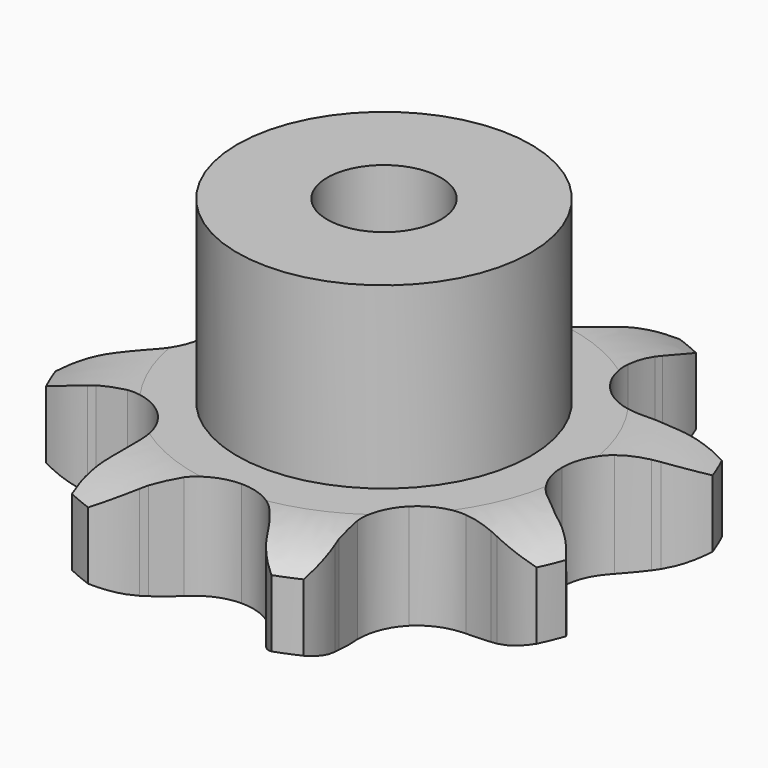
from build123d import *

# Parameters (mm, degrees)
PAD_DEPTH         = 11.1
SKETCH001_R       = 15.5
PAD001_DEPTH      = 30
SKETCH002_R       = 6
POCKET_DEPTH      = 0.001
POCKET_DEPTH_BACK = -30.001


with BuildPart() as part:
    # Sprocket → Pad (new body)
    with BuildSketch(Plane.XY):
        with BuildLine():
            ThreePointArc((-11.611878, 28.033554), (-8.844692, 26.332952), (-6.736351, 23.862271))
            Line((-6.736351, 23.862271), (-6.317841, 23.179325))
            ThreePointArc((-6.317841, 23.179325), (-5.466767, 21.929355), (-4.499806, 20.766712))
            ThreePointArc((-4.499806, 20.766712), (-2.458074, 19.303627), (0, 18.786749))
            ThreePointArc((0, 18.786749), (2.458074, 19.303627), (4.499806, 20.766712))
            ThreePointArc((4.499806, 20.766712), (5.466767, 21.929355), (6.317841, 23.179325))
            Line((6.317841, 23.179325), (6.736351, 23.862271))
            ThreePointArc((6.736351, 23.862271), (8.844692, 26.332952), (11.611878, 28.033554))
            ThreePointArc((11.611878, 28.033554), (12.366067, 24.874351), (12.109854, 21.636493))
            Line((12.109854, 21.636493), (11.92287, 20.857646))
            ThreePointArc((11.92287, 20.857646), (11.640808, 19.371983), (11.502439, 17.866126))
            ThreePointArc((11.502439, 17.866126), (11.911605, 15.387846), (13.284238, 13.284238))
            ThreePointArc((13.284238, 13.284238), (15.387846, 11.911605), (17.866126, 11.502439))
            Line((17.866126, 11.502439), (20.857646, 11.92287))
            ThreePointArc((20.857646, 11.92287), (21.245881, 12.021311), (21.636493, 12.109854))
            ThreePointArc((21.636493, 12.109854), (24.874351, 12.366067), (28.033554, 11.611878))
            ThreePointArc((28.033554, 11.611878), (26.332952, 8.844692), (23.862271, 6.736351))
            Line((23.862271, 6.736351), (23.179325, 6.317841))
            ThreePointArc((23.179325, 6.317841), (21.929355, 5.466767), (20.766712, 4.499806))
            ThreePointArc((20.766712, 4.499806), (19.303627, 2.458074), (18.786749, 0))
            ThreePointArc((18.786749, 0), (19.303627, -2.458074), (20.766712, -4.499806))
            Line((20.766712, -4.499806), (23.179325, -6.317841))
            ThreePointArc((23.179325, -6.317841), (23.523457, -6.522756), (23.862271, -6.736351))
            ThreePointArc((23.862271, -6.736351), (26.332952, -8.844692), (28.033554, -11.611878))
            ThreePointArc((28.033554, -11.611878), (24.874351, -12.366067), (21.636493, -12.109854))
            Line((21.636493, -12.109854), (20.857646, -11.92287))
            ThreePointArc((20.857646, -11.92287), (19.371983, -11.640808), (17.866126, -11.502439))
            ThreePointArc((17.866126, -11.502439), (15.387846, -11.911605), (13.284238, -13.284238))
            ThreePointArc((13.284238, -13.284238), (11.911605, -15.387846), (11.502439, -17.866126))
            Line((11.502439, -17.866126), (11.92287, -20.857646))
            ThreePointArc((11.92287, -20.857646), (12.021311, -21.245881), (12.109854, -21.636493))
            ThreePointArc((12.109854, -21.636493), (12.366067, -24.874351), (11.611878, -28.033554))
            ThreePointArc((11.611878, -28.033554), (8.844692, -26.332952), (6.736351, -23.862271))
            Line((6.736351, -23.862271), (6.317841, -23.179325))
            ThreePointArc((6.317841, -23.179325), (5.466767, -21.929355), (4.499806, -20.766712))
            ThreePointArc((4.499806, -20.766712), (2.458074, -19.303627), (0, -18.786749))
            ThreePointArc((0, -18.786749), (-2.458074, -19.303627), (-4.499806, -20.766712))
            Line((-4.499806, -20.766712), (-6.317841, -23.179325))
            ThreePointArc((-6.317841, -23.179325), (-6.522756, -23.523457), (-6.736351, -23.862271))
            ThreePointArc((-6.736351, -23.862271), (-8.844692, -26.332952), (-11.611878, -28.033554))
            ThreePointArc((-11.611878, -28.033554), (-12.366067, -24.874351), (-12.109854, -21.636493))
            Line((-12.109854, -21.636493), (-11.92287, -20.857646))
            ThreePointArc((-11.92287, -20.857646), (-11.640808, -19.371983), (-11.502439, -17.866126))
            ThreePointArc((-11.502439, -17.866126), (-11.911605, -15.387846), (-13.284238, -13.284238))
            ThreePointArc((-13.284238, -13.284238), (-15.387846, -11.911605), (-17.866126, -11.502439))
            Line((-17.866126, -11.502439), (-20.857646, -11.92287))
            ThreePointArc((-20.857646, -11.92287), (-21.245881, -12.021311), (-21.636493, -12.109854))
            ThreePointArc((-21.636493, -12.109854), (-24.874351, -12.366067), (-28.033554, -11.611878))
            ThreePointArc((-28.033554, -11.611878), (-26.332952, -8.844692), (-23.862271, -6.736351))
            Line((-23.862271, -6.736351), (-23.179325, -6.317841))
            ThreePointArc((-23.179325, -6.317841), (-21.929355, -5.466767), (-20.766712, -4.499806))
            ThreePointArc((-20.766712, -4.499806), (-19.303627, -2.458074), (-18.786749, 0))
            ThreePointArc((-18.786749, 0), (-19.303627, 2.458074), (-20.766712, 4.499806))
            Line((-20.766712, 4.499806), (-23.179325, 6.317841))
            ThreePointArc((-23.179325, 6.317841), (-23.523457, 6.522756), (-23.862271, 6.736351))
            ThreePointArc((-23.862271, 6.736351), (-26.332952, 8.844692), (-28.033554, 11.611878))
            ThreePointArc((-28.033554, 11.611878), (-24.874351, 12.366067), (-21.636493, 12.109854))
            Line((-21.636493, 12.109854), (-20.857646, 11.92287))
            ThreePointArc((-20.857646, 11.92287), (-19.371983, 11.640808), (-17.866126, 11.502439))
            ThreePointArc((-17.866126, 11.502439), (-15.387846, 11.911605), (-13.284238, 13.284238))
            ThreePointArc((-13.284238, 13.284238), (-11.911605, 15.387846), (-11.502439, 17.866126))
            Line((-11.502439, 17.866126), (-11.92287, 20.857646))
            ThreePointArc((-11.92287, 20.857646), (-12.021311, 21.245881), (-12.109854, 21.636493))
            ThreePointArc((-12.109854, 21.636493), (-12.366067, 24.874351), (-11.611878, 28.033554))
        make_face()
    extrude(amount=PAD_DEPTH)

    # Sketch → Groove (revolve, cut)
    with BuildSketch(Plane.XZ):
        with BuildLine():
            Line((20.164719, 0), (28.65, 0))
            Line((37.135281, 0), (28.65, 0))
            Line((37.135281, 11.1), (37.135281, 0))
            Line((28.65, 11.1), (37.135281, 11.1))
            Line((20.164719, 11.1), (28.65, 11.1))
            ThreePointArc((28.65, 9.1), (24.523618, 10.593242), (20.164719, 11.1))
            Line((28.65, 2), (28.65, 9.1))
            ThreePointArc((20.164719, 0), (24.523618, 0.506758), (28.65, 2))
        make_face()
    revolve(axis=Axis((0, 0, 0), (0, 0, 1)), mode=Mode.SUBTRACT)

    # Sketch001 → Pad001 (join)
    with BuildSketch(Plane.XY):
        Circle(SKETCH001_R)
    extrude(amount=PAD001_DEPTH)

    # Sketch002 → Pocket (cut, two sides)
    with BuildSketch(Plane.XY) as pocket_sk:
        Circle(SKETCH002_R)
    extrude(amount=-POCKET_DEPTH, mode=Mode.SUBTRACT)
    extrude(pocket_sk.sketch, amount=-POCKET_DEPTH_BACK, mode=Mode.SUBTRACT)


solid = part.part
